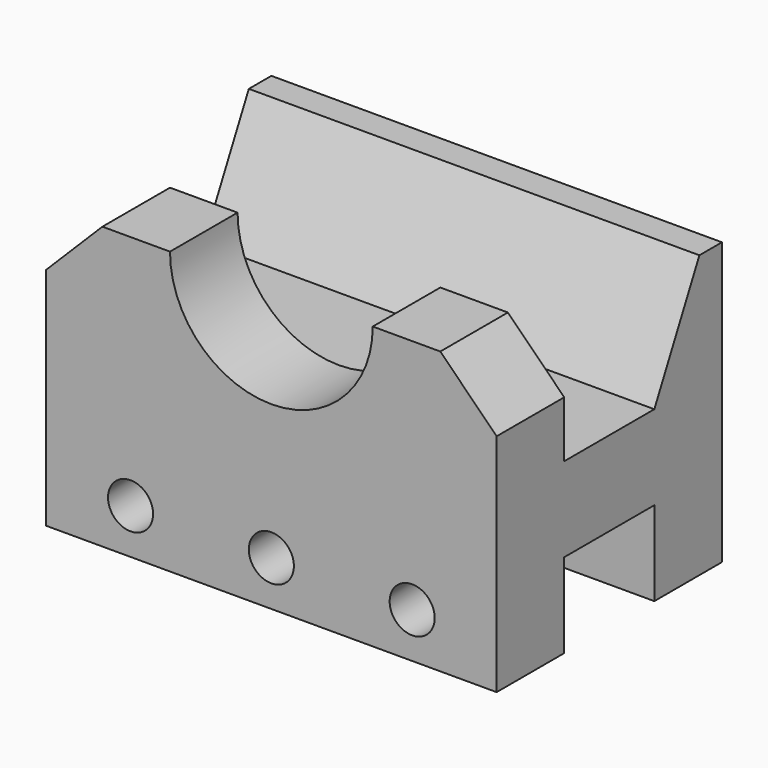
from build123d import *

# Parameters (mm, degrees)
F0_W     = 80
F0_H     = 50
F1_DEPTH = 50
F2_W     = 20
F2_H     = 15
F3_DEPTH = 80.001
F4_R     = 18
F5_DEPTH = 15
F7_D     = 8
F8_SIZE  = 10


with BuildPart() as f1:
    # F0 (on Front) → F1 (new body)
    with BuildSketch(Plane.XZ):
        with Locations((0, 25)):
            Rectangle(F0_W, F0_H)
    extrude(amount=F1_DEPTH)

    # F2 (on face) → F3 (cut, through all)
    with BuildSketch(Plane.YZ.offset(40)):
        with Locations((-25, 7.5)):
            Rectangle(F2_W, F2_H)
        Polygon((-5, 50), (-35, 50), (-35, 30), (-15, 30), align=None)
    extrude(amount=-F3_DEPTH, mode=Mode.SUBTRACT)

    # F4 (on face) → F5 (cut, through all)
    with BuildSketch(Plane.XZ.offset(50)):
        with Locations((0, 50)):
            Circle(F4_R)
    extrude(amount=-F5_DEPTH, mode=Mode.SUBTRACT)

    # F7 (through all)
    with Locations(Plane.XZ.offset(50)):
        with Locations((-25, 8), (0, 8), (25, 8)):
            Hole(F7_D / 2)

    # F8
    f8_edges = [f1.edges().sort_by_distance(p)[0] for p in [
        (-40, -42.5, 50),
        (40, -42.5, 50),
    ]]
    chamfer(f8_edges, length=F8_SIZE)


solid = f1.part
